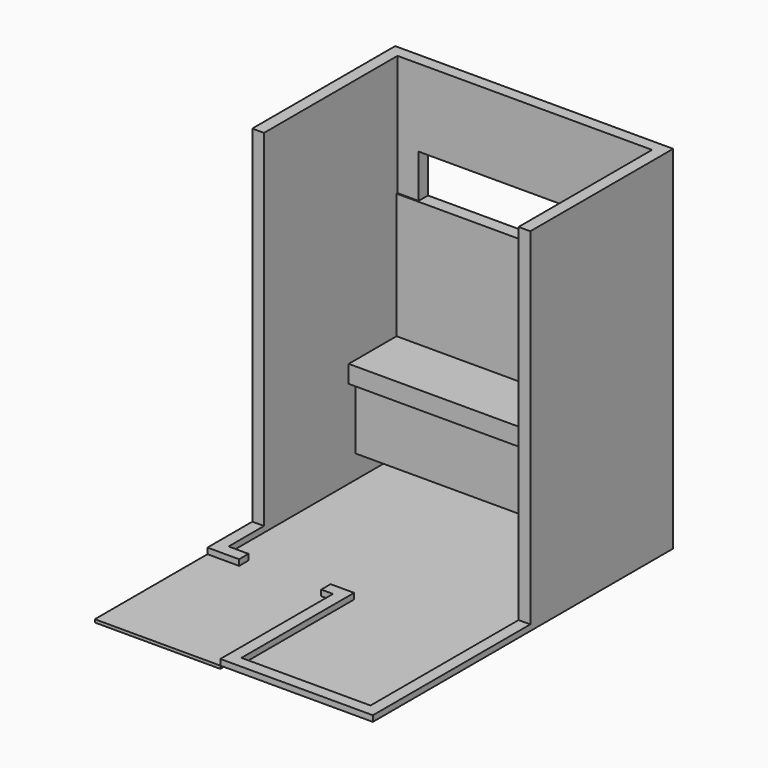
from build123d import *

# Parameters (mm, degrees)
F1_DEPTH  = 3000
F2_W      = 700
F2_H      = 2100
F3_DEPTH  = 100
F4_W      = 1500
F4_H      = 370
F5_DEPTH  = 100
F7_DEPTH  = 25
F9_DEPTH  = 2950
F10_W     = 2170
F10_H     = 700
F11_DEPTH = 450
F12_W     = 2170
F12_H     = 70
F12_H_2   = 450
F13_DEPTH = 150
F14_W     = 1680
F14_H     = 1070
F15_DEPTH = 10
F17_W     = 450
F17_H     = 530
F18_DEPTH = 500
F19_W     = 450
F19_H     = 10
F20_DEPTH = 480
F21_W     = 470
F21_H     = 980
F22_DEPTH = 450


with BuildPart() as f1:
    # F0 (on Top) → F1 (new body)
    with BuildSketch(Plane.XY):
        Polygon((2270, 1900), (-100, 1900), (-100, -100), (970, -100), (970, -1300), (2270, -1300), align=None)
        Polygon((1070, 0), (0, 0), (0, 1800), (2170, 1800), (2170, -1200), (1070, -1200), align=None, mode=Mode.SUBTRACT)
    extrude(amount=F1_DEPTH)

    # F2 (on face) → F3 (cut, through all)
    with BuildSketch(Plane.XZ.offset(100)):
        with Locations((520, 1050)):
            Rectangle(F2_W, F2_H)
    extrude(amount=-F3_DEPTH, mode=Mode.SUBTRACT)

    # F4 (on face) → F5 (cut, through all)
    with BuildSketch(Plane.XZ.offset(-1800)):
        with Locations((930, 2155)):
            Rectangle(F4_W, F4_H)
    extrude(amount=-F5_DEPTH, mode=Mode.SUBTRACT)

    # F8 (on face) → F9 (cut)
    with BuildSketch(Plane.XY.offset(3000)):
        Polygon((-472.080886364, -1550.0288009644), (2466.6786193848, -1550.0288009644), (2466.6786193848, 377.6288926601), (2270, 377.6288926601), (2270, -1300), (970, -1300), (970, -100), (-100, -100), (-100, 377.6288926601), (-472.080886364, 377.6288926601), align=None)
        Polygon((2170, -1200), (2170, 377.6288926601), (0, 377.6288926601), (0, 0), (1070, 0), (1070, -1200), align=None)
        Polygon((2270, -1300), (2270, 377.6288926601), (2170, 377.6288926601), (2170, -1200), (1070, -1200), (1070, 0), (0, 0), (0, 377.6288926601), (-100, 377.6288926601), (-100, -100), (970, -100), (970, -1300), align=None)
    extrude(amount=-F9_DEPTH, mode=Mode.SUBTRACT)

    # F10 (on face) → F11 (join)
    with BuildSketch(Plane.XZ.offset(-1800)):
        with Locations((1085, 550)):
            Rectangle(F10_W, F10_H)
    extrude(amount=F11_DEPTH)

    # F12 (on face) → F13 (join)
    with BuildSketch(Plane.XY.offset(900)):
        with Locations((1085, 1315)):
            Rectangle(F12_W, F12_H)
        with Locations((1085, 1575)):
            Rectangle(F12_W, F12_H_2)
    extrude(amount=-F13_DEPTH)

    # F14 (on face) → F15 (join)
    with BuildSketch(Plane.XZ.offset(-1800)):
        with Locations((840, 1435)):
            Rectangle(F14_W, F14_H)
    extrude(amount=F15_DEPTH)

    # F17 (on face) → F18 (cut)
    with BuildSketch(Plane.XZ.offset(-1350)):
        with Locations((1935, 475)):
            Rectangle(F17_W, F17_H)
    extrude(amount=-F18_DEPTH, mode=Mode.SUBTRACT)

    # F19 (on face) → F20 (join)
    with BuildSketch(Plane.XZ.offset(-1850)):
        with Locations((1935, 475)):
            Rectangle(F19_W, F19_H)
    extrude(amount=F20_DEPTH)

    # F21 (on face) → F22 (join)
    with BuildSketch(Plane.XZ.offset(-1800)):
        Polygon((2170, 2340), (1680, 2340), (1680, 1970), (1680, 1340), (2170, 1340), align=None)
        with Locations((1925, 1840)):
            Rectangle(F21_W, F21_H, mode=Mode.SUBTRACT)
    extrude(amount=F22_DEPTH)


with BuildPart() as f7:
    # F6 (on face) → F7 (new body)
    with BuildSketch(Plane(origin=(0, 0, 0), x_dir=(1, 0, 0), z_dir=(0, 0, -1))):
        Polygon((-100, 1300), (-100, 100), (170, 100), (170, 0), (0, 0), (0, -1800), (2170, -1800), (2170, 1200), (1070, 1200), (1070, 0), (870, 0), (870, 100), (970, 100), (970, 1300), align=None)
    extrude(amount=F7_DEPTH)


solid = Compound([f1.part, f7.part])
